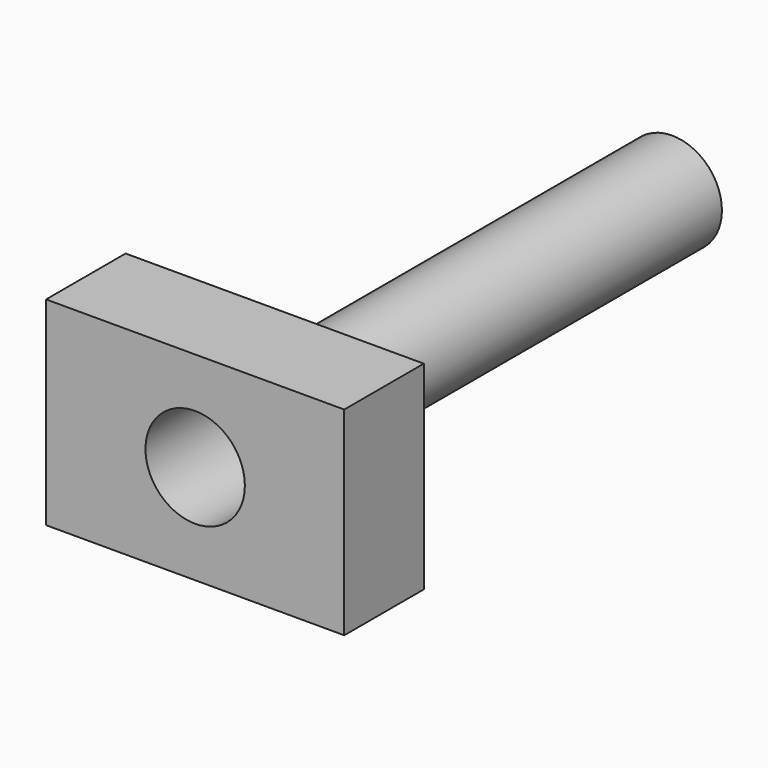
from build123d import *

# Parameters (mm, degrees)
F0_W     = 76.2
F0_H     = 50.8
F0_R     = 12.7
F1_DEPTH = 25.4
F2_R     = 12.7
F3_DEPTH = 127


with BuildPart() as f1:
    # F0 (on Front) → F1 (new body)
    with BuildSketch(Plane.XZ):
        Rectangle(F0_W, F0_H)
        Circle(F0_R, mode=Mode.SUBTRACT)
    extrude(amount=F1_DEPTH)


with BuildPart() as f3:
    # F2 (on Front) → F3 (new body)
    with BuildSketch(Plane.XZ):
        Circle(F2_R)
    extrude(amount=-F3_DEPTH)


solid = Compound([f1.part, f3.part])
